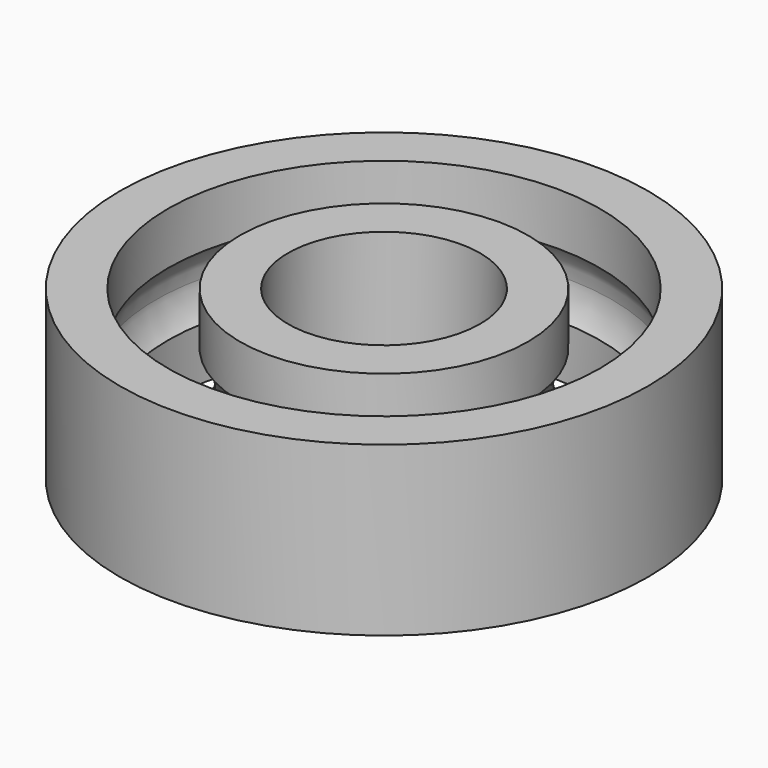
from build123d import *

# Parameters (mm, degrees)
TORUS_R           = 2
CYLINDER003_R     = 6
CYLINDER003_DEPTH = 7
CYLINDER002_R     = 9
CYLINDER002_DEPTH = 7
CYLINDER001_R     = 4
CYLINDER001_DEPTH = 7
CYLINDER_R        = 11
CYLINDER_DEPTH    = 7


with BuildPart() as torus:
    # Torus → Torus (revolve)
    with BuildSketch(Plane(origin=(0, 0, 3.5), x_dir=(1, 0, 0), z_dir=(0, -1, 0))):
        with Locations((7.5, 0)):
            Circle(TORUS_R)
    revolve(axis=Axis((0, 0, 3.5), (0, 0, 1)))


with BuildPart() as cylinder003:
    # Cylinder003 → Cylinder003 (new body)
    with BuildSketch(Plane.XY):
        Circle(CYLINDER003_R)
    extrude(amount=CYLINDER003_DEPTH)


with BuildPart() as cut005:
    # Cylinder002 → Cylinder002 (new body)
    with BuildSketch(Plane.XY):
        Circle(CYLINDER002_R)
    extrude(amount=CYLINDER002_DEPTH)

    # Cut005: cut Cylinder003
    add(cylinder003.part, mode=Mode.SUBTRACT)


with BuildPart() as cylinder001:
    # Cylinder001 → Cylinder001 (new body)
    with BuildSketch(Plane.XY):
        Circle(CYLINDER001_R)
    extrude(amount=CYLINDER001_DEPTH)


with BuildPart() as cut007:
    # Cylinder → Cylinder (new body)
    with BuildSketch(Plane.XY):
        Circle(CYLINDER_R)
    extrude(amount=CYLINDER_DEPTH)

    # Cut004: cut Cylinder001
    add(cylinder001.part, mode=Mode.SUBTRACT)

    # Cut006: cut Cut005
    add(cut005.part, mode=Mode.SUBTRACT)

    # Cut007: cut Torus
    add(torus.part, mode=Mode.SUBTRACT)


solid = cut007.part
